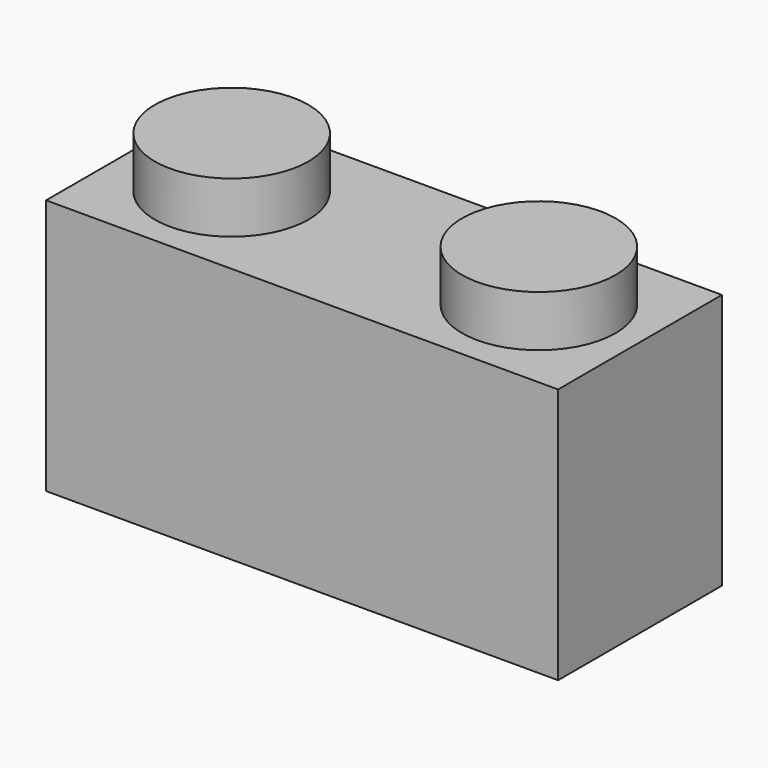
from build123d import *

# Parameters (mm, degrees)
F0_W     = 100
F0_H     = 50
F1_DEPTH = 40
F2_R     = 15
F3_DEPTH = 10
F5_W     = 90
F5_H     = 30
F6_DEPTH = 40


with BuildPart() as f1:
    # F0 (on Front) → F1 (new body)
    with BuildSketch(Plane.XZ):
        Rectangle(F0_W, F0_H)
    extrude(amount=F1_DEPTH)

    # F2 (on face) → F3 (join)
    with BuildSketch(Plane.XY.offset(25)):
        with Locations((-29.75936, -20)):
            Circle(F2_R)
        with Locations((30.24064, -20)):
            Circle(F2_R)
    extrude(amount=F3_DEPTH)

    # F5 (on face) → F6 (cut)
    with BuildSketch(Plane(origin=(0, 0, -25), x_dir=(1, 0, 0), z_dir=(0, 0, -1))):
        with Locations((0, 20)):
            Rectangle(F5_W, F5_H)
    extrude(amount=-F6_DEPTH, mode=Mode.SUBTRACT)


solid = f1.part
